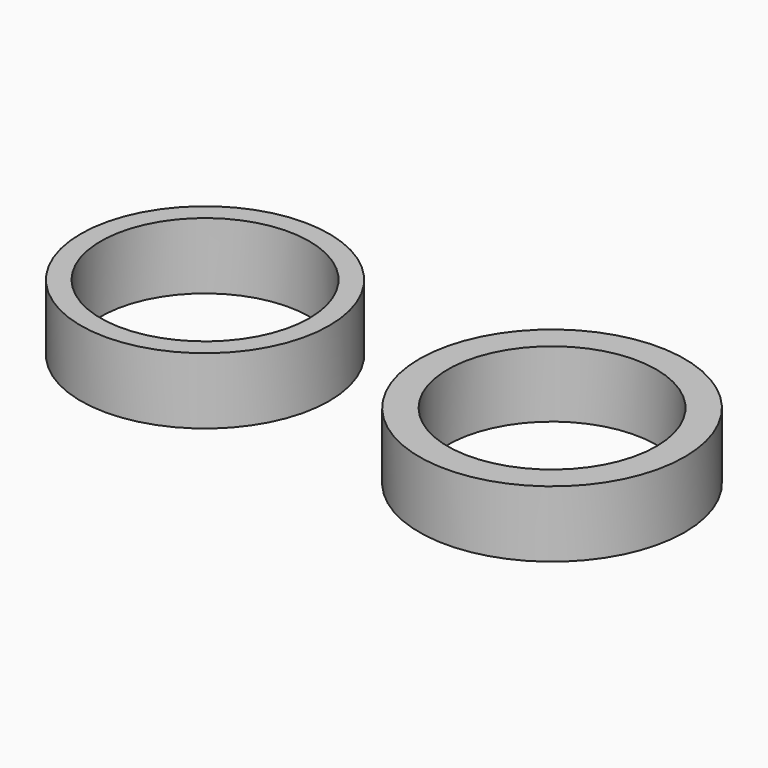
from build123d import *

# Parameters (mm, degrees)
F0_R     = 13.113302
F0_R_2   = 11.005
F0_R_3   = 14
F0_R_4   = 11
F1_DEPTH = 7


with BuildPart() as f1:
    # F0 (on Top) → F1 (new body)
    with BuildSketch(Plane.XY):
        Circle(F0_R)
        Circle(F0_R_2, mode=Mode.SUBTRACT)
        with Locations((36.613233, 0)):
            Circle(F0_R_3)
        with Locations((36.613233, 0)):
            Circle(F0_R_4, mode=Mode.SUBTRACT)
    extrude(amount=F1_DEPTH)


solid = f1.part
